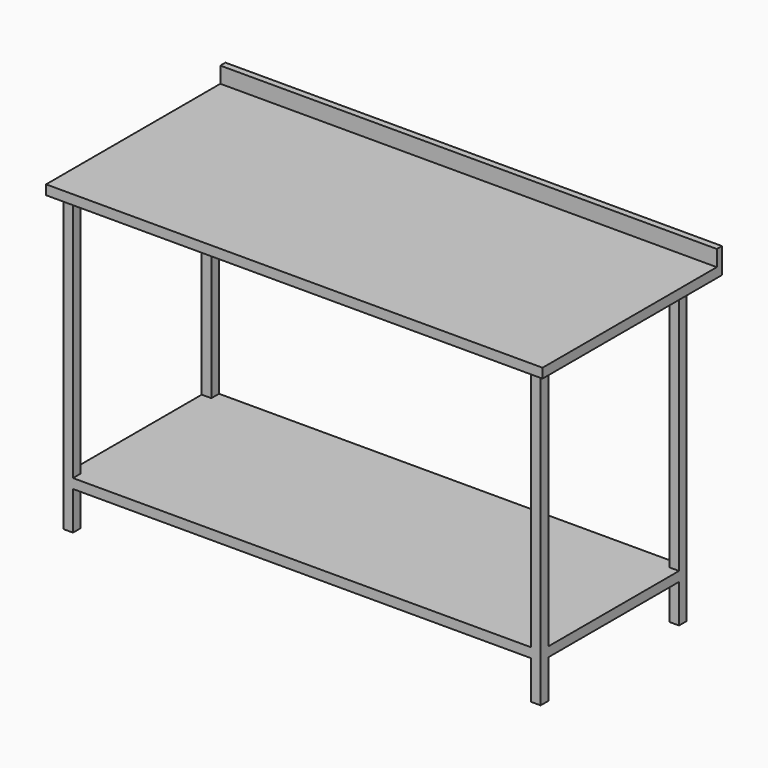
from build123d import *

# Parameters (mm, degrees)
F1_DEPTH = 1550
F2_W     = 30
F2_H     = 30
F3_DEPTH = 920
F4_W     = 570
F4_H     = 30
F5_DEPTH = 1490


with BuildPart() as f1:
    # F0 (on Right) → F1 (new body)
    with BuildSketch(Plane.YZ):
        Polygon((680, 0), (0, 0), (0, -30), (700, -30), (700, 50), (680, 50), align=None)
    extrude(amount=F1_DEPTH)

    # F2 (on face) → F3 (join)
    with BuildSketch(Plane(origin=(0, 0, -30), x_dir=(1, 0, 0), z_dir=(0, 0, -1))):
        with Locations((1505, -45)):
            Rectangle(F2_W, F2_H)
        with Locations((1505, -585)):
            Rectangle(F2_W, F2_H)
        with Locations((45, -585)):
            Rectangle(F2_W, F2_H)
        with Locations((45, -45)):
            Rectangle(F2_W, F2_H)
    extrude(amount=F3_DEPTH)

    # F4 (on face) → F5 (join, through all)
    with BuildSketch(Plane.YZ.offset(1520)):
        with Locations((315, -815)):
            Rectangle(F4_W, F4_H)
    extrude(amount=-F5_DEPTH)


solid = f1.part
